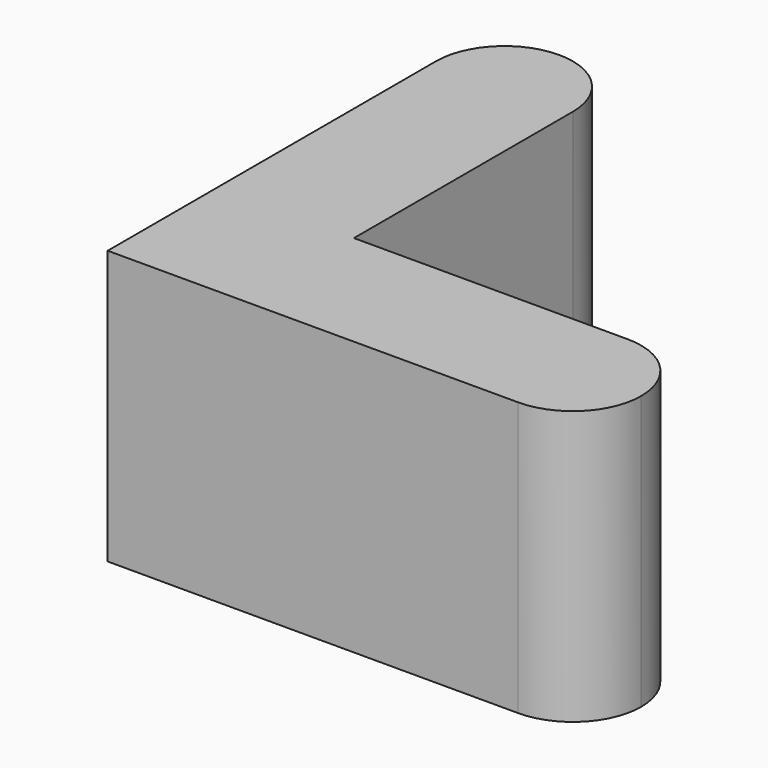
from build123d import *

# Parameters (mm, degrees)
F1_DEPTH = 25.4


with BuildPart() as f1:
    # F0 (on Top) → F1 (new body)
    with BuildSketch(Plane.XY):
        with BuildLine():
            Line((0, 12.7), (0, 0))
            Line((0, 0), (12.7, 0))
            Line((12.7, 0), (12.7, 6.35))
            ThreePointArc((12.7, 6.35), (10.8401280605, 10.8401280605), (6.35, 12.7))
            Line((6.35, 12.7), (0, 12.7))
        make_face()
        with BuildLine():
            Line((12.7, 6.35), (12.7, 0))
            Line((12.7, 0), (38.1, 0))
            ThreePointArc((38.1, 0), (31.75, 6.35), (38.1, 12.7))
            Line((38.1, 12.7), (23.6217547208, 12.7))
            Line((23.6217547208, 12.7), (18.1608773604, 12.7))
            Line((18.1608773604, 12.7), (12.7, 12.7))
            Line((12.7, 12.7), (12.7, 6.35))
        make_face()
        with BuildLine():
            Line((0, 38.1), (0, 12.7))
            Line((0, 12.7), (6.35, 12.7))
            Line((6.35, 12.7), (12.7, 12.7))
            Line((12.7, 12.7), (12.7, 19.05))
            Line((12.7, 19.05), (12.7, 38.1))
            ThreePointArc((12.7, 38.1), (6.35, 31.75), (0, 38.1))
        make_face()
        with BuildLine():
            ThreePointArc((38.1, 12.7), (31.75, 6.35), (38.1, 0))
            Line((38.1, 0), (38.1, 12.7))
        make_face()
        with BuildLine():
            Line((38.1, 12.7), (38.1, 0))
            ThreePointArc((38.1, 0), (42.5901280605, 1.8598719395), (44.45, 6.35))
            ThreePointArc((44.45, 6.35), (42.5901280605, 10.8401280605), (38.1, 12.7))
        make_face()
        with BuildLine():
            ThreePointArc((6.35, 12.7), (10.8401280605, 10.8401280605), (12.7, 6.35))
            Line((12.7, 6.35), (12.7, 12.7))
            Line((12.7, 12.7), (6.35, 12.7))
        make_face()
        with BuildLine():
            ThreePointArc((12.7, 38.1), (6.35, 44.45), (0, 38.1))
            Line((0, 38.1), (12.7, 38.1))
        make_face()
        with BuildLine():
            Line((12.7, 38.1), (0, 38.1))
            ThreePointArc((0, 38.1), (6.35, 31.75), (12.7, 38.1))
        make_face()
    extrude(amount=F1_DEPTH)


solid = f1.part
